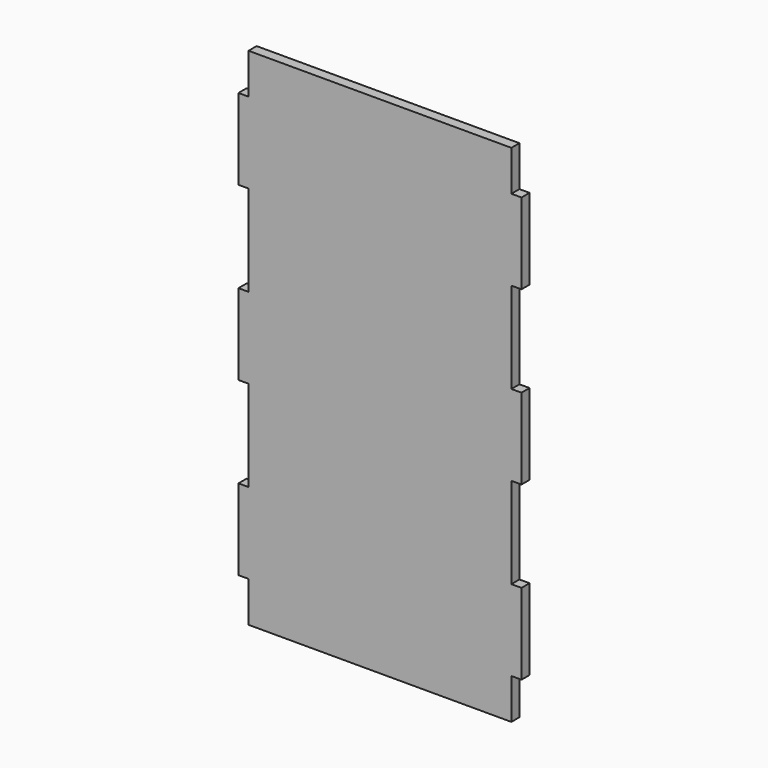
from build123d import *

# Parameters (mm, degrees)
F0_W     = 3.175
F0_H     = 25.4
F1_DEPTH = 3.175


with BuildPart() as f1:
    # F0 (on Front) → F1 (new body)
    with BuildSketch(Plane.XZ):
        Polygon((-41.275, -79.375), (41.275, -79.375), (41.275, -66.675), (41.275, -41.275), (41.275, -12.7), (41.275, 12.7), (41.275, 41.275), (41.275, 66.675), (41.275, 79.375), (-41.275, 79.375), (-41.275, 66.675), (-41.275, 41.275), (-41.275, 12.7), (-41.275, -12.7), (-41.275, -41.275), (-41.275, -66.675), align=None)
        with Locations((-42.8625, 53.975)):
            Rectangle(F0_W, F0_H)
        with Locations((-42.8625, 0)):
            Rectangle(F0_W, F0_H)
        with Locations((-42.8625, -53.975)):
            Rectangle(F0_W, F0_H)
        with Locations((42.8625, -53.975)):
            Rectangle(F0_W, F0_H)
        with Locations((42.8625, 0)):
            Rectangle(F0_W, F0_H)
        with Locations((42.8625, 53.975)):
            Rectangle(F0_W, F0_H)
    extrude(amount=F1_DEPTH)


solid = f1.part
